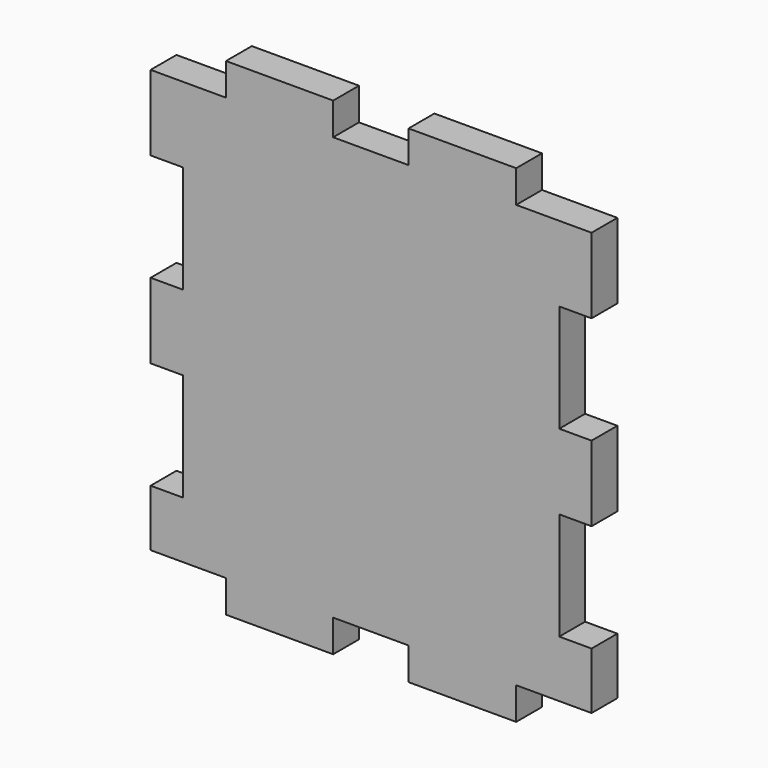
from build123d import *

# Parameters (mm, degrees)
F1_DEPTH = 3


with BuildPart() as f1:
    # F0 (on Front) → F1 (new body)
    with BuildSketch(Plane.XZ):
        Polygon((-7, 1.724721), (0, 1.724721), (0, 7), (-3, 7), (-3, 17), (0, 17), (0, 24), (-3, 24), (-3, 34), (0, 34), (0, 41), (-7, 41), (-7, 44), (-17, 44), (-17, 41), (-24, 41), (-24, 44), (-33.955059, 44), (-33.955059, 41), (-34, 41), (-40.955059, 41), (-40.955059, 34), (-37.955059, 34), (-37.955059, 24), (-40.955059, 24), (-40.955059, 17), (-37.955059, 17), (-37.955059, 7), (-40.955059, 7), (-40.955059, 1.724721), (-34, 1.724721), (-33.955059, 1.724721), (-33.955059, -1.275279), (-24, -1.275279), (-24, 1.724721), (-17, 1.724721), (-17, -1.275279), (-7, -1.275279), align=None)
    extrude(amount=F1_DEPTH)


solid = f1.part
